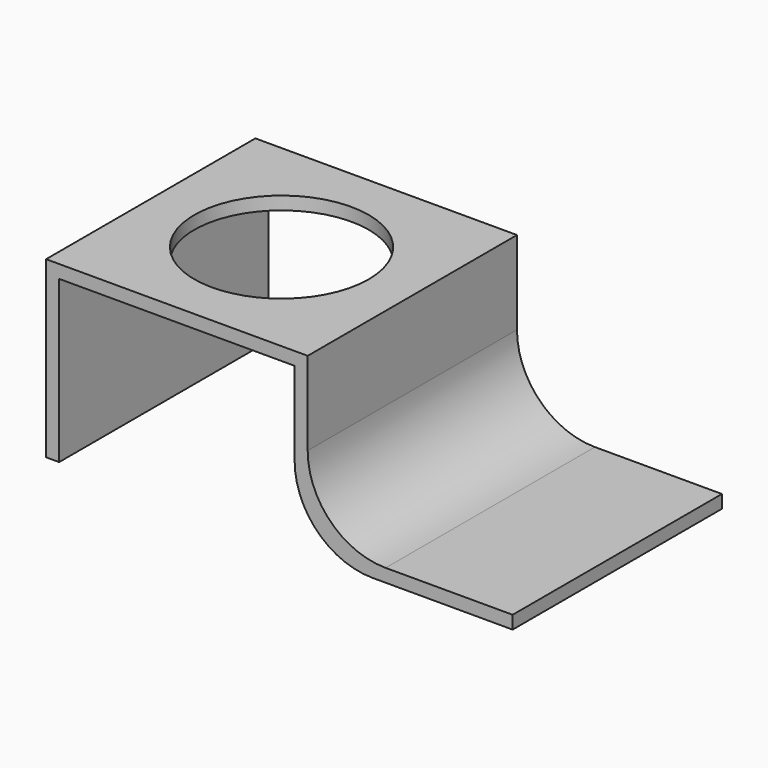
from build123d import *

# Parameters (mm, degrees)
F0_W     = 270
F0_H     = 15
F0_W_2   = 235
F0_W_3   = 15
F0_H_2   = 185
F0_H_3   = 170
F1_DEPTH = 300
F2_R     = 100
F3_DEPTH = 15
F4_R     = 89.325902


with BuildPart() as f1:
    # F0 (on Front) → F1 (new body)
    with BuildSketch(Plane.XZ):
        with Locations((-135, 192.5)):
            Rectangle(F0_W, F0_H)
        with Locations((132.5, 7.5)):
            Rectangle(F0_W_2, F0_H)
        with Locations((-277.5, 92.5)):
            Rectangle(F0_W_3, F0_H_2)
        with Locations((7.5, 7.5)):
            Rectangle(F0_W_3, F0_H)
        with Locations((7.5, 100)):
            Rectangle(F0_W_3, F0_H_3)
        with Locations((7.5, 192.5)):
            Rectangle(F0_W_3, F0_H)
        with Locations((-277.5, 192.5)):
            Rectangle(F0_W_3, F0_H)
    extrude(amount=-F1_DEPTH)

    # F2 (on face) → F3 (cut, through all)
    with BuildSketch(Plane.XY.offset(200)):
        with Locations((-135, 150)):
            Circle(F2_R)
    extrude(amount=-F3_DEPTH, mode=Mode.SUBTRACT)

    # F4
    f4_edges = [f1.edges().sort_by_distance(p)[0] for p in [
        (15, 150, 15),
        (0, 150, 0),
    ]]
    fillet(f4_edges, radius=F4_R)


solid = f1.part
